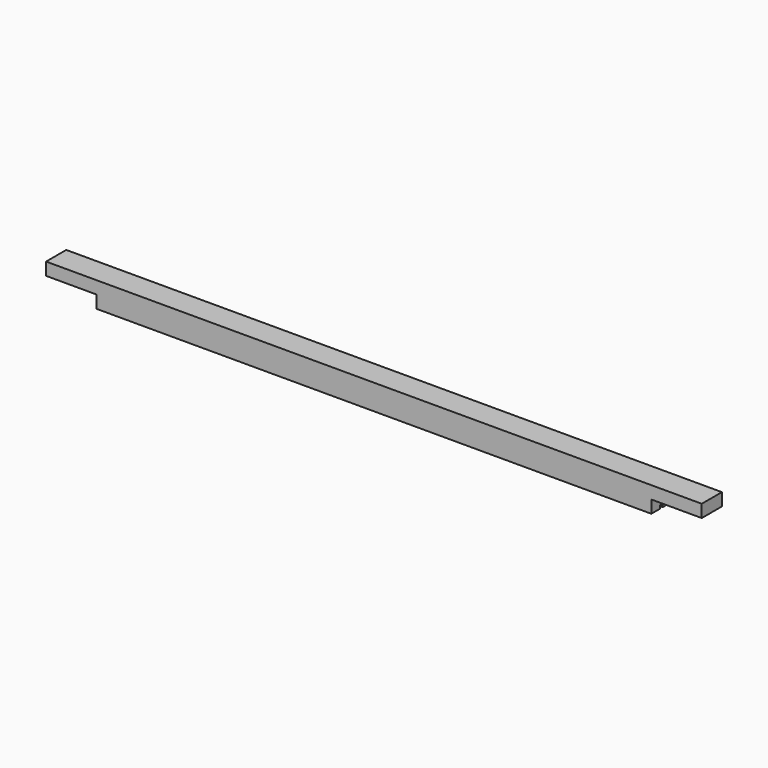
from build123d import *

# Parameters (mm, degrees)
F0_W     = 660.4
F0_H     = 25.4
F1_DEPTH = 25.4
F2_W     = 50.8
F2_H     = 12.7
F3_DEPTH = 25.4
F4_W     = 558.8
F4_H     = 3.175
F5_DEPTH = 3.175


with BuildPart() as f1:
    # F0 (on Front) → F1 (new body)
    with BuildSketch(Plane.XZ):
        Rectangle(F0_W, F0_H)
    extrude(amount=F1_DEPTH)

    # F2 (on face) → F3 (cut)
    with BuildSketch(Plane.XZ.offset(25.4)):
        with Locations((-304.8, -6.35)):
            Rectangle(F2_W, F2_H)
        with Locations((304.8, -6.35)):
            Rectangle(F2_W, F2_H)
    extrude(amount=-F3_DEPTH, mode=Mode.SUBTRACT)

    # F4 (on face) → F5 (cut)
    with BuildSketch(Plane(origin=(0, 0, -12.7), x_dir=(1, 0, 0), z_dir=(0, 0, -1))):
        with Locations((0, 12.7)):
            Rectangle(F4_W, F4_H)
    extrude(amount=-F5_DEPTH, mode=Mode.SUBTRACT)


solid = f1.part
